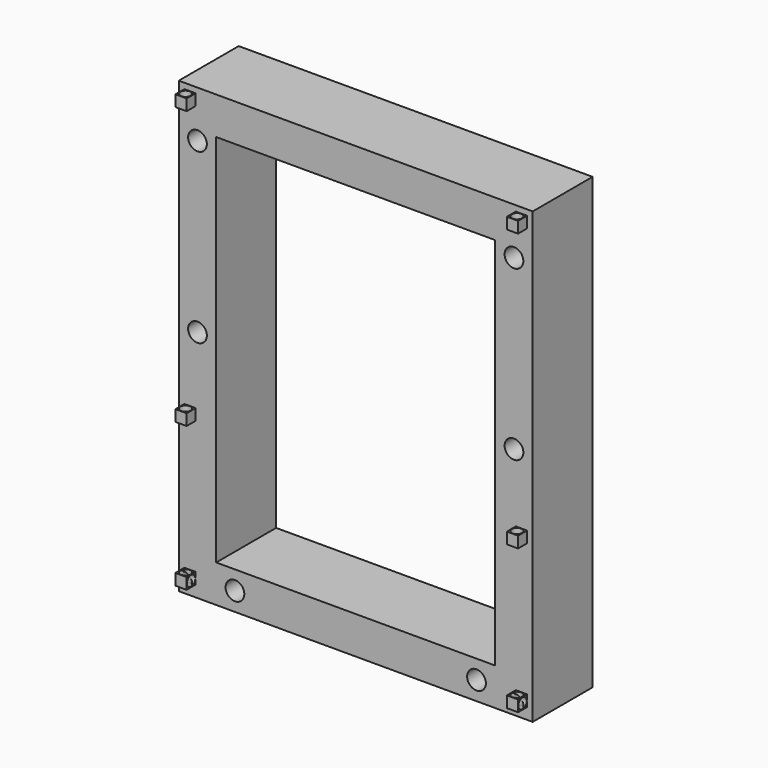
from build123d import *

# Parameters (mm, degrees)
F0_W     = 120.015
F0_H     = 152.4
F0_W_2   = 3.81
F0_H_2   = 3.81
F0_R     = 3.175
F0_W_3   = 94.615
F0_H_3   = 127
F1_DEPTH = 25.4
F2_DEPTH = 29.21
F3_R     = 1.778
F4_DEPTH = 118.111
F5_DEPTH = 29.21
F6_R     = 1.778
F7_DEPTH = 150.496
F8_R     = 1.778
F9_DEPTH = 150.496


with BuildPart() as f1:
    # F0 (on Front) → F1 (new body)
    with BuildSketch(Plane.XZ):
        with Locations((60.0075, -76.2)):
            Rectangle(F0_W, F0_H)
        with Locations((3.81, -146.685)):
            Rectangle(F0_W_2, F0_H_2, mode=Mode.SUBTRACT)
        with Locations((19.05, -146.05)):
            Circle(F0_R, mode=Mode.SUBTRACT)
        with Locations((3.81, -97.79)):
            Rectangle(F0_W_2, F0_H_2, mode=Mode.SUBTRACT)
        with Locations((100.965, -146.05)):
            Circle(F0_R, mode=Mode.SUBTRACT)
        with Locations((116.205, -146.685)):
            Rectangle(F0_W_2, F0_H_2, mode=Mode.SUBTRACT)
        with Locations((116.205, -97.79)):
            Rectangle(F0_W_2, F0_H_2, mode=Mode.SUBTRACT)
        with Locations((6.35, -73.025)):
            Circle(F0_R, mode=Mode.SUBTRACT)
        with Locations((60.0075, -76.2)):
            Rectangle(F0_W_3, F0_H_3, mode=Mode.SUBTRACT)
        with Locations((6.35, -15.875)):
            Circle(F0_R, mode=Mode.SUBTRACT)
        with Locations((3.81, -3.81)):
            Rectangle(F0_W_2, F0_H_2, mode=Mode.SUBTRACT)
        with Locations((113.665, -73.025)):
            Circle(F0_R, mode=Mode.SUBTRACT)
        with Locations((113.665, -15.875)):
            Circle(F0_R, mode=Mode.SUBTRACT)
        with Locations((116.205, -3.81)):
            Rectangle(F0_W_2, F0_H_2, mode=Mode.SUBTRACT)
    extrude(amount=F1_DEPTH)

    # F0 (on Front) → F2 (join)
    with BuildSketch(Plane.XZ):
        with Locations((116.205, -146.685)):
            Rectangle(F0_W_2, F0_H_2)
        with Locations((3.81, -146.685)):
            Rectangle(F0_W_2, F0_H_2)
    extrude(amount=F2_DEPTH)

    # F3 (on face) → F4 (cut, through all)
    with BuildSketch(Plane(origin=(1.905, 0, 0), x_dir=(0, -1, 0), z_dir=(-1, 0, 0))):
        with Locations((27.305, -146.685)):
            Circle(F3_R)
    extrude(amount=-F4_DEPTH, mode=Mode.SUBTRACT)

    # F0 (on Front) → F5 (join)
    with BuildSketch(Plane.XZ):
        with Locations((116.205, -97.79)):
            Rectangle(F0_W_2, F0_H_2)
        with Locations((116.205, -3.81)):
            Rectangle(F0_W_2, F0_H_2)
        with Locations((3.81, -3.81)):
            Rectangle(F0_W_2, F0_H_2)
        with Locations((3.81, -97.79)):
            Rectangle(F0_W_2, F0_H_2)
    extrude(amount=F5_DEPTH)

    # F6 (on face) → F7 (cut, through all)
    with BuildSketch(Plane.XY.offset(-1.905)):
        with Locations((3.81, -27.305)):
            Circle(F6_R)
    extrude(amount=-F7_DEPTH, mode=Mode.SUBTRACT)

    # F8 (on face) → F9 (cut, through all)
    with BuildSketch(Plane.XY.offset(-1.905)):
        with Locations((116.205, -27.305)):
            Circle(F8_R)
    extrude(amount=-F9_DEPTH, mode=Mode.SUBTRACT)


solid = f1.part
